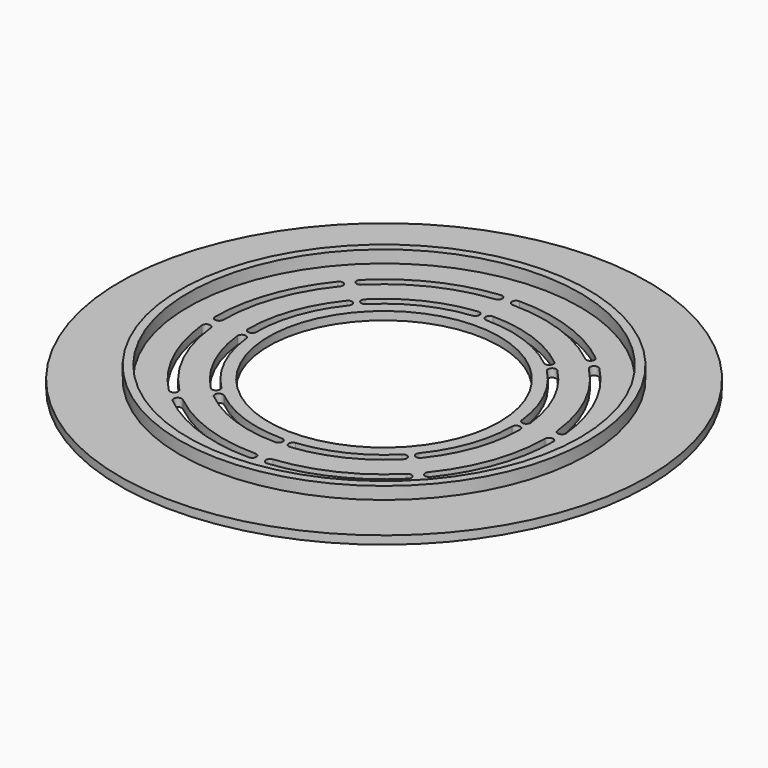
from build123d import *

# Parameters (mm, degrees)
SKETCH_R           = 32
SKETCH_R_2         = 14
PAD_DEPTH          = 1
SKETCH001_R        = 24.75
SKETCH001_R_2      = 23.75
PAD001_DEPTH       = 1.5
POCKET_DEPTH       = 182.089376
POLARPATTERN_COUNT = 8


with BuildPart() as part:
    # Sketch → Pad (new body)
    with BuildSketch(Plane.XY):
        Circle(SKETCH_R)
        Circle(SKETCH_R_2, mode=Mode.SUBTRACT)
    extrude(amount=PAD_DEPTH)

    # Sketch001 (on Face4 of Pad) → Pad001 (join)
    with BuildSketch(Plane.XY.offset(1)):
        Circle(SKETCH001_R)
        Circle(SKETCH001_R_2, mode=Mode.SUBTRACT)
    extrude(amount=PAD001_DEPTH)

    # Sketch002 (on Face6 of Pad001) → Pocket (cut, through all)
    with BuildSketch(Plane.XY.offset(1)):
        with BuildLine():
            ThreePointArc((9.754466, 12.045762), (5.174006, 14.610943), (0, 15.5))
            ThreePointArc((0, 16.5), (-0.5, 16), (0, 15.5))
            ThreePointArc((10.383786, 12.822908), (5.507813, 15.553585), (0, 16.5))
            ThreePointArc((9.754466, 12.045762), (10.457699, 12.119675), (10.383786, 12.822908))
        make_face()
        with BuildLine():
            ThreePointArc((12.271748, 15.154346), (6.509234, 18.381509), (0, 19.5))
            ThreePointArc((0, 20.5), (-0.5, 20), (0, 19.5))
            ThreePointArc((12.901068, 15.931492), (6.843041, 19.324151), (0, 20.5))
            ThreePointArc((12.271748, 15.154346), (12.974981, 15.228259), (12.901068, 15.931492))
        make_face()
    pocket = extrude(amount=-POCKET_DEPTH, mode=Mode.SUBTRACT)

    # PolarPattern: Pocket ×8 about axis
    polarpattern_axis = Axis((0, 0, 1), (0, 0, 1))
    for i in range(1, POLARPATTERN_COUNT):
        add(pocket.rotate(polarpattern_axis, i * 360 / POLARPATTERN_COUNT), mode=Mode.SUBTRACT)


solid = part.part
